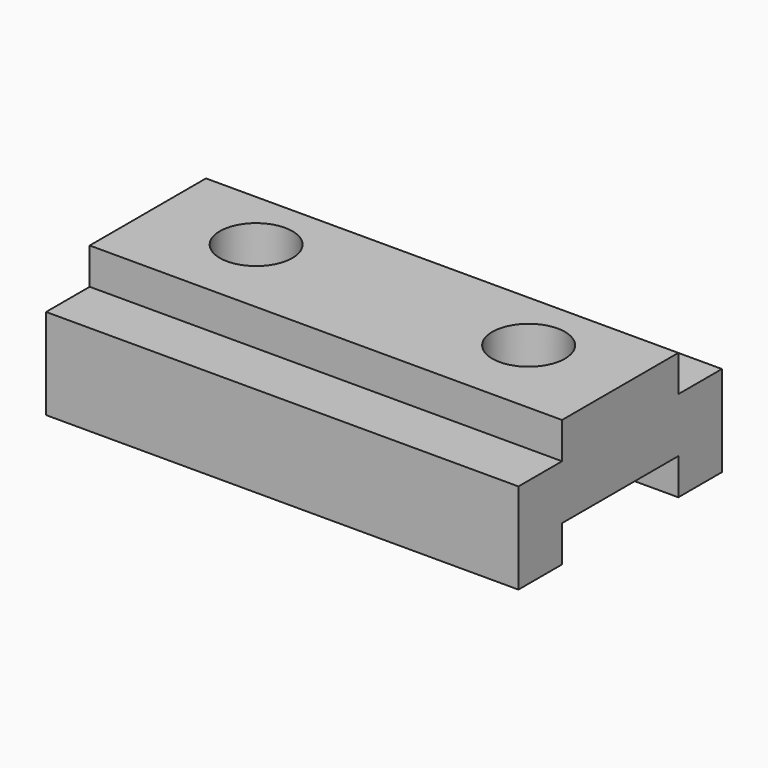
from build123d import *

# Parameters (mm, degrees)
F1_DEPTH = 165.1
F2_R     = 12.7
F3_DEPTH = 44.451


with BuildPart() as f1:
    # F0 (on Right) → F1 (new body)
    with BuildSketch(Plane.YZ):
        Polygon((0, 31.75), (0, 0), (19.05, 0), (19.05, 12.7), (69.85, 12.7), (69.85, 0), (88.9, 0), (88.9, 31.75), (69.85, 31.75), (69.85, 44.45), (19.05, 44.45), (19.05, 31.75), align=None)
    extrude(amount=-F1_DEPTH)

    # F2 (on Top) → F3 (cut, through all)
    with BuildSketch(Plane.XY):
        with Locations((-129.963889, 47.84286)):
            Circle(F2_R)
        with Locations((-34.713889, 47.84286)):
            Circle(F2_R)
    extrude(amount=F3_DEPTH, mode=Mode.SUBTRACT)


solid = f1.part
